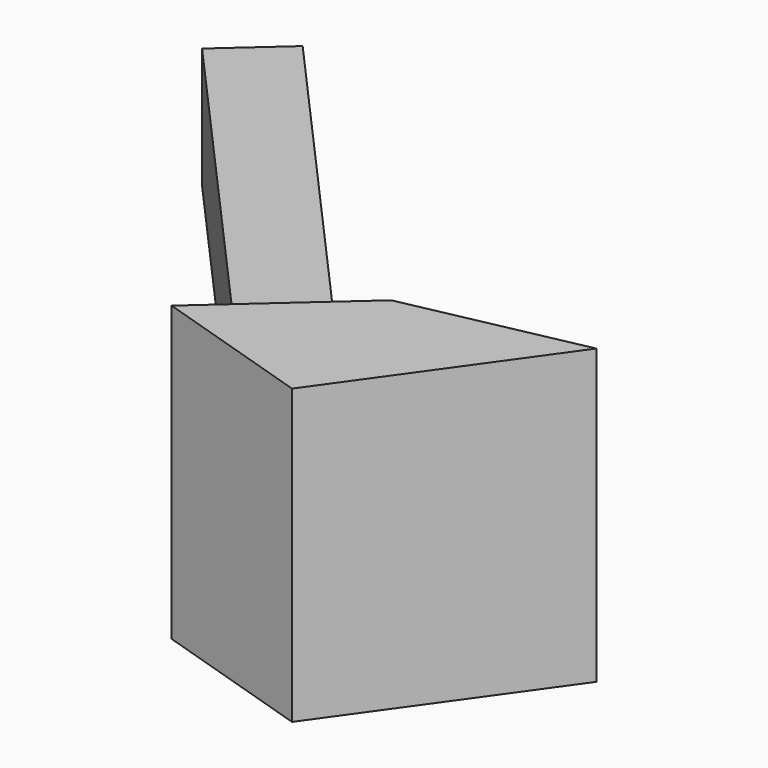
from build123d import *

# Parameters (mm, degrees)
F1_DEPTH = 87.558992
F2_W     = 23.463726
F2_H     = 36.116287
F3_DEPTH = 159.944564


with BuildPart() as f1:
    # F0 (on Top) → F1 (new body)
    with BuildSketch(Plane.XY):
        Polygon((52.528806, 32.23221), (0, 21.399237), (-38.256936, -12.692079), (9.787939, -27.863212), align=None)
    extrude(amount=F1_DEPTH)

    # F2 (on face) → F3 (join)
    with BuildSketch(Plane(origin=(-10.628911, 11.927659, 0), x_dir=(-0.746584, -0.665292, 0), z_dir=(-0.665292, 0.746584, 0))):
        with Locations((9.666294, 53.462007)):
            Rectangle(F2_W, F2_H)
    extrude(amount=F3_DEPTH)


solid = f1.part
